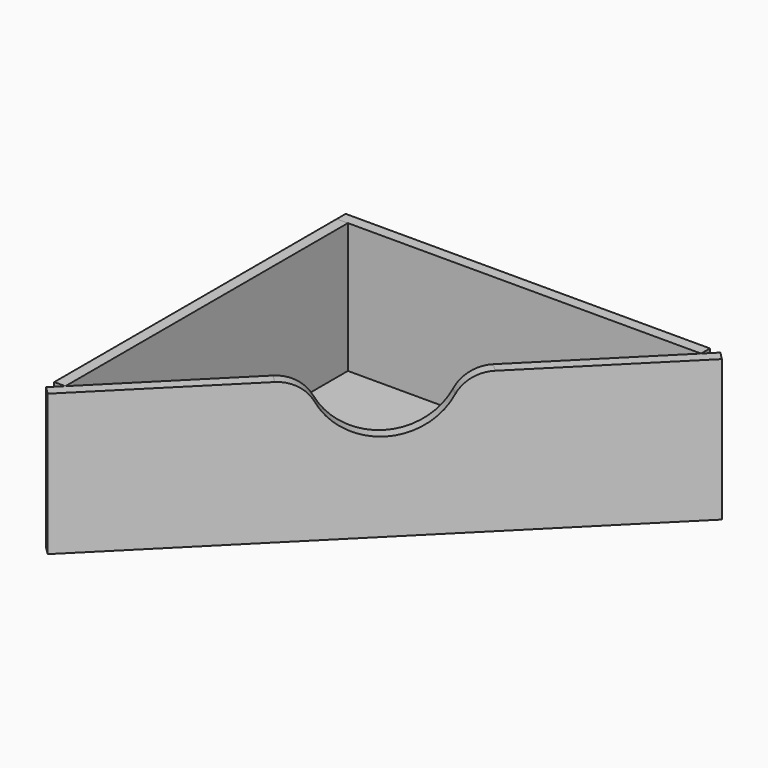
from build123d import *

# Parameters (mm, degrees)
F2_DEPTH  = 3.15
F3_W      = 100
F3_H      = 40
F4_DEPTH  = 3.15
F5_W      = 103.15
F5_H      = 40
F6_DEPTH  = 3.15
F7_W      = 150
F7_H      = 40
F8_DEPTH  = 3.15
F9_R      = 17.5
F10_DEPTH = 25
F11_R     = 10


with BuildPart() as f2:
    # F1 (on Top) → F2 (new body)
    with BuildSketch(Plane.XY):
        Polygon((0, 100), (0, 0), (100, 100), align=None)
    extrude(amount=F2_DEPTH)


with BuildPart() as f4:
    # F3 (on face) → F4 (new body)
    with BuildSketch(Plane(origin=(0, 0, 0), x_dir=(0, -1, 0), z_dir=(-1, 0, 0))):
        with Locations((-50, 20)):
            Rectangle(F3_W, F3_H)
    extrude(amount=F4_DEPTH)


with BuildPart() as f6:
    # F5 (on face) → F6 (new body)
    with BuildSketch(Plane(origin=(0, 100, 0), x_dir=(-1, 0, 0), z_dir=(0, 1, 0))):
        with Locations((-48.425, 20)):
            Rectangle(F5_W, F5_H)
    extrude(amount=F6_DEPTH)


with BuildPart() as f8:
    # F7 (on face) → F8 (new body)
    with BuildSketch(Plane(origin=(0, 0, 0), x_dir=(0.7071067812, 0.7071067812, 0), z_dir=(0.7071067812, -0.7071067812, 0))):
        with Locations((70.7106781187, 20)):
            Rectangle(F7_W, F7_H)
    extrude(amount=F8_DEPTH)

    # F9 (on face) → F10 (cut)
    with BuildSketch(Plane(origin=(2.2273863607, -2.2273863607, 0), x_dir=(0.7071067812, 0.7071067812, 0), z_dir=(0.7071067812, -0.7071067812, 0))):
        with Locations((70.7106781187, 42.5)):
            Circle(F9_R)
    extrude(amount=-F10_DEPTH, mode=Mode.SUBTRACT)

    # F11
    f11_edges = [f8.edges().sort_by_distance(p)[0] for p in [
        (63.361142, 61.133756, 40),
        (38.866244, 36.638858, 40),
    ]]
    fillet(f11_edges, radius=F11_R)


solid = Compound([f2.part, f4.part, f6.part, f8.part])
